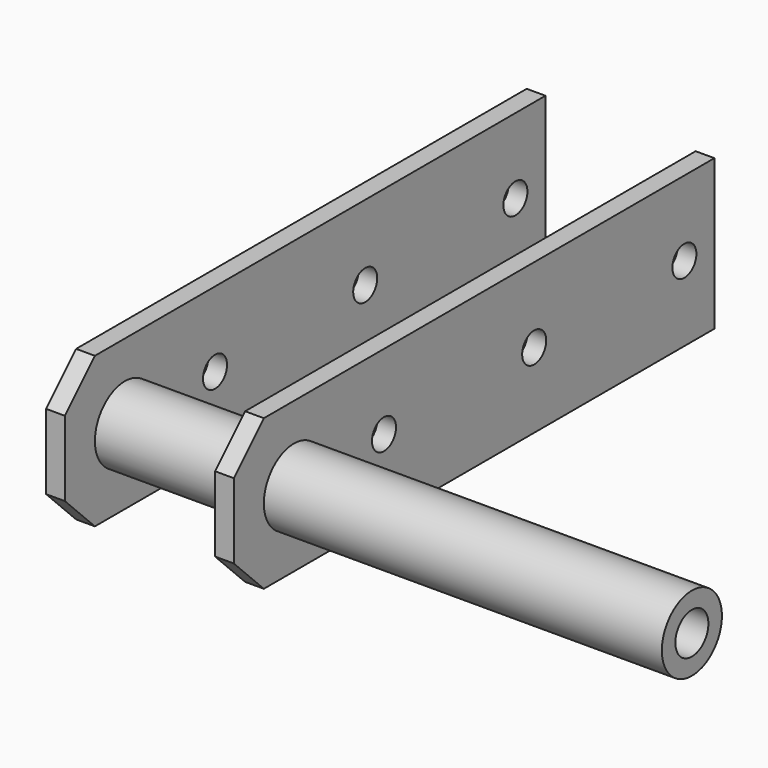
from build123d import *

# Parameters (mm, degrees)
F0_R      = 10
F1_DEPTH  = 161
F3_W      = 160
F3_H      = 40
F4_DEPTH  = 5
F6_W      = 160
F6_H      = 40
F7_DEPTH  = 5
F8_SIZE   = 10
F10_D     = 8
F12_D     = 11
F12_DEPTH = 30
F12_TIP   = 3.3047334047


with BuildPart() as f1:
    # F0 (on Right) → F1 (new body)
    with BuildSketch(Plane.YZ):
        Circle(F0_R)
    extrude(amount=F1_DEPTH)

    # F3 (on offset) → F4 (join)
    with BuildSketch(Plane.YZ.offset(5)):
        with Locations((60, 0)):
            Rectangle(F3_W, F3_H)
    extrude(amount=F4_DEPTH)

    # F6 (on offset) → F7 (join)
    with BuildSketch(Plane.YZ.offset(50)):
        with Locations((60, -9.313e-07)):
            Rectangle(F6_W, F6_H)
    extrude(amount=F7_DEPTH)

    # F8
    f8_edges = [f1.edges().sort_by_distance(p)[0] for p in [
        (52.5, -20, 19.999999),
        (7.5, -20, 20),
        (7.5, -20, -20),
        (52.5, -20, -20.000001),
    ]]
    chamfer(f8_edges, length=F8_SIZE)

    # F10 (through all)
    with Locations(Plane(origin=(5, 0, 0), x_dir=(0, -1, 0), z_dir=(-1, 0, 0))):
        with Locations((-130, 0), (-80, 0), (-30, 0)):
            Hole(F10_D / 2)

    # F12
    with Locations(Plane.YZ.offset(161)):
        with Locations((0, 0)):
            Hole(F12_D / 2, depth=F12_DEPTH)
            with Locations((0, 0, -(F12_DEPTH + F12_TIP / 2))):  # 118° drill point
                Cone(0, F12_D / 2, F12_TIP, mode=Mode.SUBTRACT)


solid = f1.part
